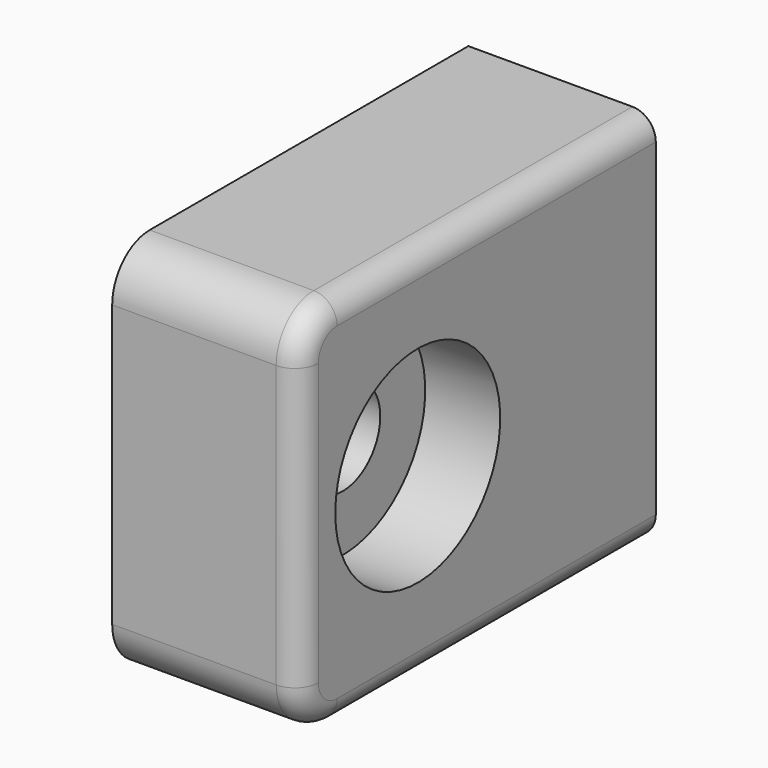
from build123d import *

# Parameters (mm, degrees)
SKETCH067_W             = 9.5
SKETCH067_H             = 8
PAD034_DEPTH            = 4
FILLET019_R             = 1
SKETCH068_R             = 2.2
POCKET033_DEPTH         = 1.6
SKETCH069_R             = 1
POCKET034_DEPTH         = 3
POCKET038_DEPTH         = 1
SKETCH072_W             = 2.2
SKETCH072_H             = 5
POCKET039_DEPTH         = 1.5
SKETCH074_R             = 1.5
POCKET041_DEPTH         = 1.3
FILLET023_R             = 0.5
PAD195_DEPTH            = 0.4
PAD195_FACE6_W          = 5
PAD195_FACE6_H          = 1.5
PAD196_DEPTH            = 0.25
BODY007_ROLL_ANGLE      = -90
BODY007_PLACEMENT_ANGLE = -90


with BuildPart() as part:
    # Sketch067 → Pad034 (new body)
    with BuildSketch(Plane.XY):
        with Locations((-4.75, 0)):
            Rectangle(SKETCH067_W, SKETCH067_H)
    extrude(amount=PAD034_DEPTH)

    # Fillet019
    fillet019_edges = [part.edges().sort_by_distance(p)[0] for p in [
        (0, 4, 2),
        (0, -4, 2),
    ]]
    fillet(fillet019_edges, radius=FILLET019_R)

    # Sketch068 (on Face5 of Fillet019) → Pocket033 (cut)
    with BuildSketch(Plane.XY.offset(4)):
        with Locations((-3.15, 0)):
            Circle(SKETCH068_R)
    extrude(amount=-POCKET033_DEPTH, mode=Mode.SUBTRACT)

    # Sketch069 (on Face10 of Pocket033) → Pocket034 (cut)
    with BuildSketch(Plane.XY.offset(2.4)):
        with Locations((-3.15, 0)):
            Circle(SKETCH069_R)
    extrude(amount=-POCKET034_DEPTH, mode=Mode.SUBTRACT)

    # Sketch071 (on DatumPlane) → Pocket038 (cut)
    with BuildSketch(Plane(origin=(0, 0, 0), x_dir=(1, 0, 0), z_dir=(0, 0, -1))):
        with BuildLine():
            Line((-8.2, 2.5), (-3.198621, 2.5))
            ThreePointArc((-3.198621, -2.5), (-0.698621, 0), (-3.198621, 2.5))
            Line((-3.198621, -2.5), (-8.2, -2.5))
            Line((-8.2, -2.5), (-8.2, 2.5))
        make_face()
    extrude(amount=-POCKET038_DEPTH, mode=Mode.SUBTRACT)

    # Sketch072 (on DatumPlane) → Pocket039 (cut)
    with BuildSketch(Plane(origin=(0, 0, 1), x_dir=(1, 0, 0), z_dir=(0, 0, -1))):
        with Locations((-7.1, 0)):
            Rectangle(SKETCH072_W, SKETCH072_H)
    extrude(amount=-POCKET039_DEPTH, mode=Mode.SUBTRACT)

    # Sketch074 (on DatumPlane) → Pocket041 (cut)
    with BuildSketch(Plane(origin=(-9.5, 0, 0), x_dir=(0, -1, 0), z_dir=(-1, 0, 0))):
        Circle(SKETCH074_R)
    extrude(amount=-POCKET041_DEPTH, mode=Mode.SUBTRACT)

    # Fillet023
    fillet023_edges = [part.edges().sort_by_distance(p)[0] for p in [
        (-5.25, -4, 4),
        (-0.292893, -3.707107, 4),
        (0, 0, 4),
        (-0.292893, 3.707107, 4),
        (-5.25, 4, 4),
    ]]
    fillet(fillet023_edges, radius=FILLET023_R)

    # Fillet023 Face12 → Pad195 (add)
    with BuildSketch(Plane(origin=(-8.2, 0, 1.491795), x_dir=(0, -1, 0), z_dir=(1, 0, 0))):
        with BuildLine():
            Line((-1.5, 1.491795), (-2.5, 1.491795))
            Line((-2.5, 1.491795), (-2.5, -1.008205))
            Line((-2.5, -1.008205), (2.5, -1.008205))
            Line((2.5, -1.008205), (2.5, 1.491795))
            Line((2.5, 1.491795), (1.5, 1.491795))
            ThreePointArc((1.5, 1.491795), (0, -0.008205), (-1.5, 1.491795))
        make_face()
    extrude(amount=PAD195_DEPTH)

    # Pad195 Face6 → Pad196 (add)
    with BuildSketch(Plane(origin=(-6, 0, 1.75), x_dir=(0, 1, 0), z_dir=(-1, 0, 0))):
        Rectangle(PAD195_FACE6_W, PAD195_FACE6_H)
    extrude(amount=PAD196_DEPTH)


with BuildPart() as part_1:
    # Body007 roll: moved
    add(part.part.rotate(Axis((0, 0, 0), (1, 0, 0)), BODY007_ROLL_ANGLE))


with BuildPart() as part_2:
    # Body007 placement: moved
    add(part_1.part.moved(Location((32.8, -30.5, 7.25))).rotate(Axis((32.8, -30.5, 7.25), (0, 0, 1)), BODY007_PLACEMENT_ANGLE))


solid = part_2.part
